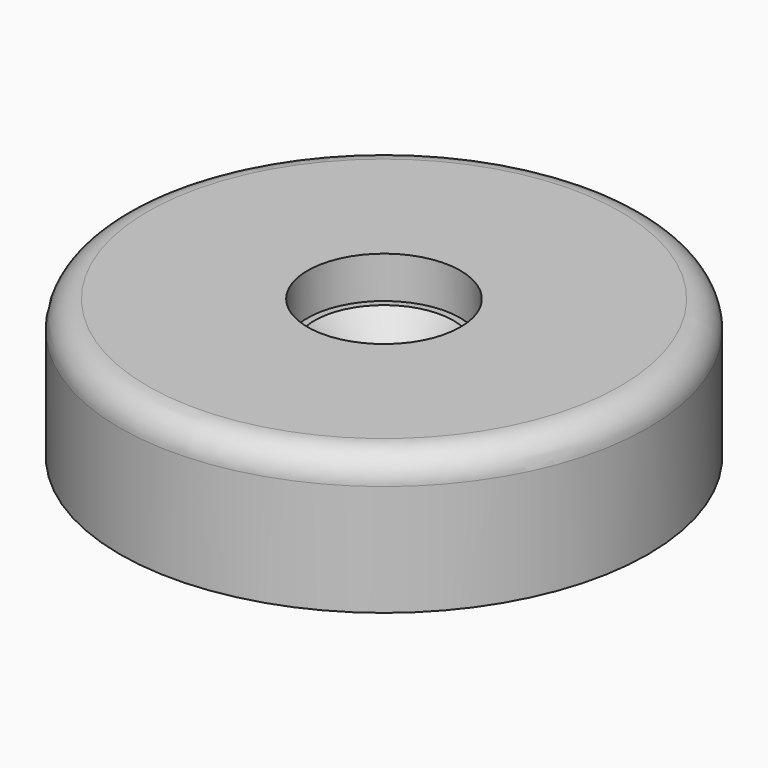
from build123d import *

# Parameters (mm, degrees)
SKETCH_R        = 19
PAD_DEPTH       = 10
SKETCH001_R     = 3
POCKET_DEPTH    = 10.001
SKETCH002_R     = 5.5
POCKET001_DEPTH = 3
CHAMFER_SIZE    = 2
FILLET_R        = 2


with BuildPart() as part:
    # Sketch → Pad (new body)
    with BuildSketch(Plane.XY):
        Circle(SKETCH_R)
    extrude(amount=PAD_DEPTH)

    # Sketch001 (on Face3 of Pad) → Pocket (cut, through all)
    with BuildSketch(Plane.XY.offset(10)):
        Circle(SKETCH001_R)
    extrude(amount=-POCKET_DEPTH, mode=Mode.SUBTRACT)

    # Sketch002 (on Face3 of Pocket) → Pocket001 (cut)
    with BuildSketch(Plane.XY.offset(10)):
        Circle(SKETCH002_R)
    extrude(amount=-POCKET001_DEPTH, mode=Mode.SUBTRACT)

    # Chamfer
    chamfer_edges = [part.edges().sort_by_distance(p)[0] for p in [
        (-3, 0, 7),
    ]]
    chamfer(chamfer_edges, length=CHAMFER_SIZE)

    # Fillet
    fillet_edges = [part.edges().sort_by_distance(p)[0] for p in [
        (-19, 0, 10),
    ]]
    fillet(fillet_edges, radius=FILLET_R)


solid = part.part
